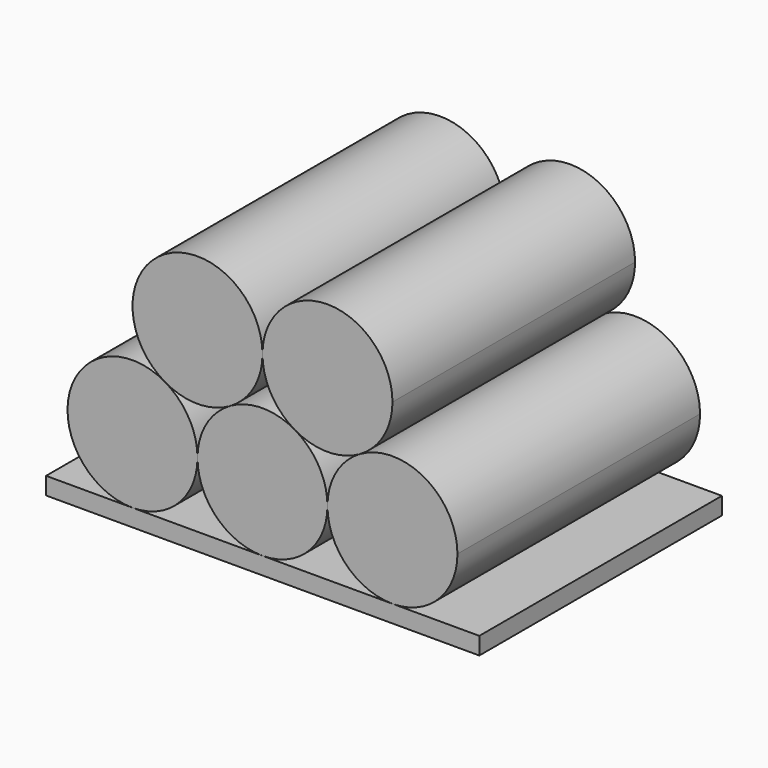
from build123d import *

# Parameters (mm, degrees)
F1_DEPTH = 88.9


with BuildPart() as f1:
    # F0 (on Front) → F1 (new body)
    with BuildSketch(Plane.XZ):
        with BuildLine():
            ThreePointArc((-9.586811, -10.320259), (-2.614027, -3.347475), (-0.061811, 6.177525))
            ThreePointArc((-0.061811, 6.177525), (-28.636811, 22.675309), (-28.636811, -10.320258))
            ThreePointArc((-28.636811, -10.320258), (-19.111811, -12.872475), (-9.586811, -10.320259))
        make_face()
        with BuildLine():
            ThreePointArc((38.038189, 6.177525), (18.988189, 25.227525), (-0.061811, 6.177525))
            ThreePointArc((-0.061811, 6.177525), (2.490405, -3.347474), (9.463189, -10.320258))
            ThreePointArc((9.463189, -10.320258), (18.988189, -12.872475), (28.51319, -10.320258))
            ThreePointArc((28.51319, -10.320258), (35.485973, -3.347474), (38.038189, 6.177525))
        make_face()
        with BuildLine():
            ThreePointArc((9.463189, -10.320258), (-0.061811, -7.768042), (-9.586811, -10.320259))
            ThreePointArc((-9.586811, -10.320259), (-16.559595, -17.293043), (-19.111811, -26.818042))
            ThreePointArc((-19.111811, -26.818042), (-13.532195, -40.288427), (-0.061811, -45.868042))
            ThreePointArc((-0.061811, -45.868042), (13.408573, -40.288427), (18.988189, -26.818042))
            ThreePointArc((18.988189, -26.818042), (16.435973, -17.293042), (9.463189, -10.320258))
        make_face()
        with BuildLine():
            ThreePointArc((57.088189, -26.818042), (47.563189, -10.320259), (28.51319, -10.320258))
            ThreePointArc((28.51319, -10.320258), (21.540405, -17.293042), (18.988189, -26.818042))
            ThreePointArc((18.988189, -26.818042), (24.567805, -40.288427), (38.038189, -45.868042))
            ThreePointArc((38.038189, -45.868042), (51.508573, -40.288427), (57.088189, -26.818042))
        make_face()
        with BuildLine():
            ThreePointArc((-19.111811, -26.818042), (-21.664027, -17.293042), (-28.636811, -10.320258))
            ThreePointArc((-28.636811, -10.320258), (-56.562698, -21.88754), (-38.161811, -45.868042))
            ThreePointArc((-38.161811, -45.868042), (-24.691427, -40.288427), (-19.111811, -26.818042))
        make_face()
        Polygon((-0.061811, -45.868042), (-38.161811, -45.868042), (-63.5, -45.868042), (-63.5, -50.948042), (63.5, -50.948042), (63.5, -45.868042), (38.038189, -45.868042), align=None)
    extrude(amount=F1_DEPTH)


solid = f1.part
